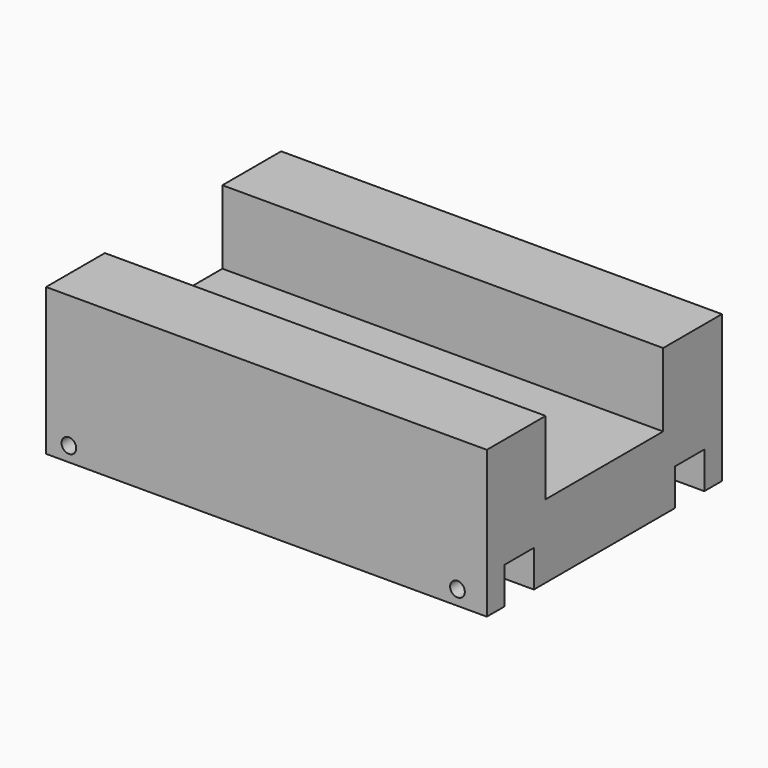
from build123d import *

# Parameters (mm, degrees)
F0_W      = 60
F0_H      = 40
F1_DEPTH  = 20
F2_W      = 60
F2_H      = 20
F3_DEPTH  = 10
F4_R      = 4
F5_DEPTH  = 25
F6_R      = 4
F7_DEPTH  = 25
F8_W      = 60
F8_H      = 5
F9_DEPTH  = 5
F10_W     = 60
F10_H     = 5
F11_DEPTH = 5
F12_R     = 1
F13_DEPTH = 5
F14_R     = 1
F15_DEPTH = 5


with BuildPart() as f1:
    # F0 (on Top) → F1 (new body)
    with BuildSketch(Plane.XY):
        Rectangle(F0_W, F0_H)
    extrude(amount=F1_DEPTH)

    # F2 (on face) → F3 (cut)
    with BuildSketch(Plane.XY.offset(20)):
        Rectangle(F2_W, F2_H)
    extrude(amount=-F3_DEPTH, mode=Mode.SUBTRACT)

    # F4 (on face) → F5 (cut)
    with BuildSketch(Plane.XY.offset(10)):
        with Locations((-16, 0)):
            Circle(F4_R)
    extrude(amount=-F5_DEPTH, mode=Mode.SUBTRACT)

    # F6 (on face) → F7 (cut)
    with BuildSketch(Plane.XY.offset(10)):
        with Locations((16, 0)):
            Circle(F6_R)
    extrude(amount=-F7_DEPTH, mode=Mode.SUBTRACT)

    # F8 (on face) → F9 (cut)
    with BuildSketch(Plane(origin=(0, 0, 0), x_dir=(1, 0, 0), z_dir=(0, 0, -1))):
        with Locations((0, 14.5)):
            Rectangle(F8_W, F8_H)
    extrude(amount=-F9_DEPTH, mode=Mode.SUBTRACT)

    # F10 (on face) → F11 (cut)
    with BuildSketch(Plane(origin=(0, 0, 0), x_dir=(1, 0, 0), z_dir=(0, 0, -1))):
        with Locations((0, -14.5)):
            Rectangle(F10_W, F10_H)
    extrude(amount=-F11_DEPTH, mode=Mode.SUBTRACT)

    # F12 (on face) → F13 (cut)
    with BuildSketch(Plane.XZ.offset(20)):
        with Locations((-26.892597, 2)):
            Circle(F12_R)
    extrude(amount=-F13_DEPTH, mode=Mode.SUBTRACT)

    # F14 (on face) → F15 (cut)
    with BuildSketch(Plane.XZ.offset(20)):
        with Locations((26, 2)):
            Circle(F14_R)
    extrude(amount=-F15_DEPTH, mode=Mode.SUBTRACT)


solid = f1.part
